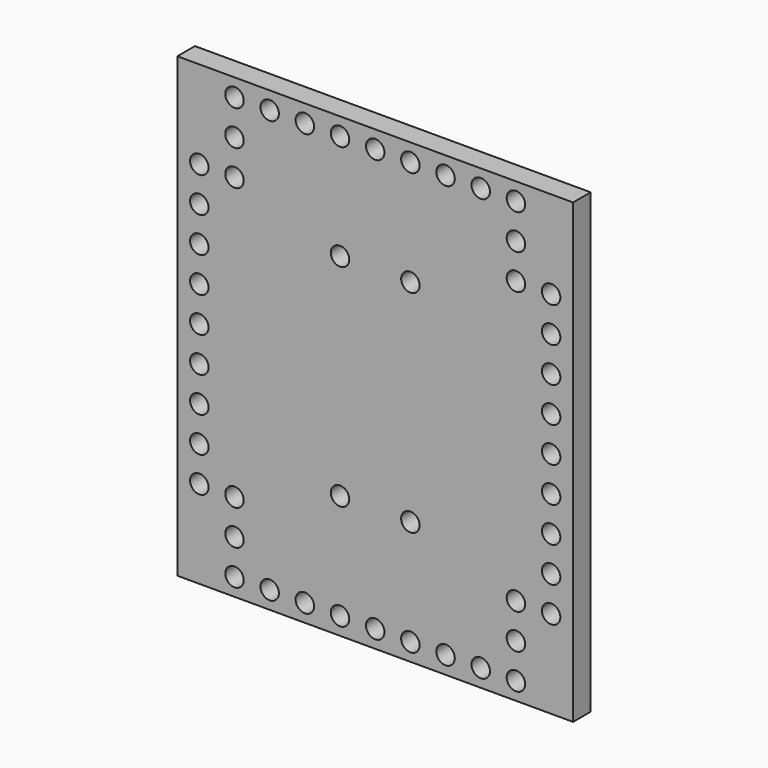
from build123d import *

# Parameters (mm, degrees)
F0_W     = 90
F0_H     = 104
F0_R     = 2.1
F1_DEPTH = 5


with BuildPart() as f1:
    # F0 (on Front) → F1 (new body)
    with BuildSketch(Plane.XZ):
        Rectangle(F0_W, F0_H)
        with Locations((-32, -48)):
            Circle(F0_R, mode=Mode.SUBTRACT)
        with Locations((-24, -48)):
            Circle(F0_R, mode=Mode.SUBTRACT)
        with Locations((-32, -40)):
            Circle(F0_R, mode=Mode.SUBTRACT)
        with Locations((-40, -32)):
            Circle(F0_R, mode=Mode.SUBTRACT)
        with Locations((-32, -32)):
            Circle(F0_R, mode=Mode.SUBTRACT)
        with Locations((-16, -48)):
            Circle(F0_R, mode=Mode.SUBTRACT)
        with Locations((-8, -48)):
            Circle(F0_R, mode=Mode.SUBTRACT)
        with Locations((-40, -24)):
            Circle(F0_R, mode=Mode.SUBTRACT)
        with Locations((-40, -16)):
            Circle(F0_R, mode=Mode.SUBTRACT)
        with Locations((-40, -8)):
            Circle(F0_R, mode=Mode.SUBTRACT)
        with Locations((-8, -24)):
            Circle(F0_R, mode=Mode.SUBTRACT)
        with Locations((0, -48)):
            Circle(F0_R, mode=Mode.SUBTRACT)
        with Locations((8, -48)):
            Circle(F0_R, mode=Mode.SUBTRACT)
        with Locations((16, -48)):
            Circle(F0_R, mode=Mode.SUBTRACT)
        with Locations((24, -48)):
            Circle(F0_R, mode=Mode.SUBTRACT)
        with Locations((32, -48)):
            Circle(F0_R, mode=Mode.SUBTRACT)
        with Locations((32, -40)):
            Circle(F0_R, mode=Mode.SUBTRACT)
        with Locations((32, -32)):
            Circle(F0_R, mode=Mode.SUBTRACT)
        with Locations((40, -32)):
            Circle(F0_R, mode=Mode.SUBTRACT)
        with Locations((8, -24)):
            Circle(F0_R, mode=Mode.SUBTRACT)
        with Locations((40, -24)):
            Circle(F0_R, mode=Mode.SUBTRACT)
        with Locations((40, -16)):
            Circle(F0_R, mode=Mode.SUBTRACT)
        with Locations((40, -8)):
            Circle(F0_R, mode=Mode.SUBTRACT)
        with Locations((-40, 0)):
            Circle(F0_R, mode=Mode.SUBTRACT)
        with Locations((-40, 8)):
            Circle(F0_R, mode=Mode.SUBTRACT)
        with Locations((-40, 16)):
            Circle(F0_R, mode=Mode.SUBTRACT)
        with Locations((-40, 24)):
            Circle(F0_R, mode=Mode.SUBTRACT)
        with Locations((-8, 24)):
            Circle(F0_R, mode=Mode.SUBTRACT)
        with Locations((-40, 32)):
            Circle(F0_R, mode=Mode.SUBTRACT)
        with Locations((-32, 32)):
            Circle(F0_R, mode=Mode.SUBTRACT)
        with Locations((-32, 40)):
            Circle(F0_R, mode=Mode.SUBTRACT)
        with Locations((-32, 48)):
            Circle(F0_R, mode=Mode.SUBTRACT)
        with Locations((-24, 48)):
            Circle(F0_R, mode=Mode.SUBTRACT)
        with Locations((-16, 48)):
            Circle(F0_R, mode=Mode.SUBTRACT)
        with Locations((-8, 48)):
            Circle(F0_R, mode=Mode.SUBTRACT)
        with Locations((8, 24)):
            Circle(F0_R, mode=Mode.SUBTRACT)
        with Locations((40, 0)):
            Circle(F0_R, mode=Mode.SUBTRACT)
        with Locations((40, 8)):
            Circle(F0_R, mode=Mode.SUBTRACT)
        with Locations((40, 16)):
            Circle(F0_R, mode=Mode.SUBTRACT)
        with Locations((40, 24)):
            Circle(F0_R, mode=Mode.SUBTRACT)
        with Locations((0, 48)):
            Circle(F0_R, mode=Mode.SUBTRACT)
        with Locations((8, 48)):
            Circle(F0_R, mode=Mode.SUBTRACT)
        with Locations((16, 48)):
            Circle(F0_R, mode=Mode.SUBTRACT)
        with Locations((32, 32)):
            Circle(F0_R, mode=Mode.SUBTRACT)
        with Locations((40, 32)):
            Circle(F0_R, mode=Mode.SUBTRACT)
        with Locations((32, 40)):
            Circle(F0_R, mode=Mode.SUBTRACT)
        with Locations((24, 48)):
            Circle(F0_R, mode=Mode.SUBTRACT)
        with Locations((32, 48)):
            Circle(F0_R, mode=Mode.SUBTRACT)
    extrude(amount=F1_DEPTH)


solid = f1.part
